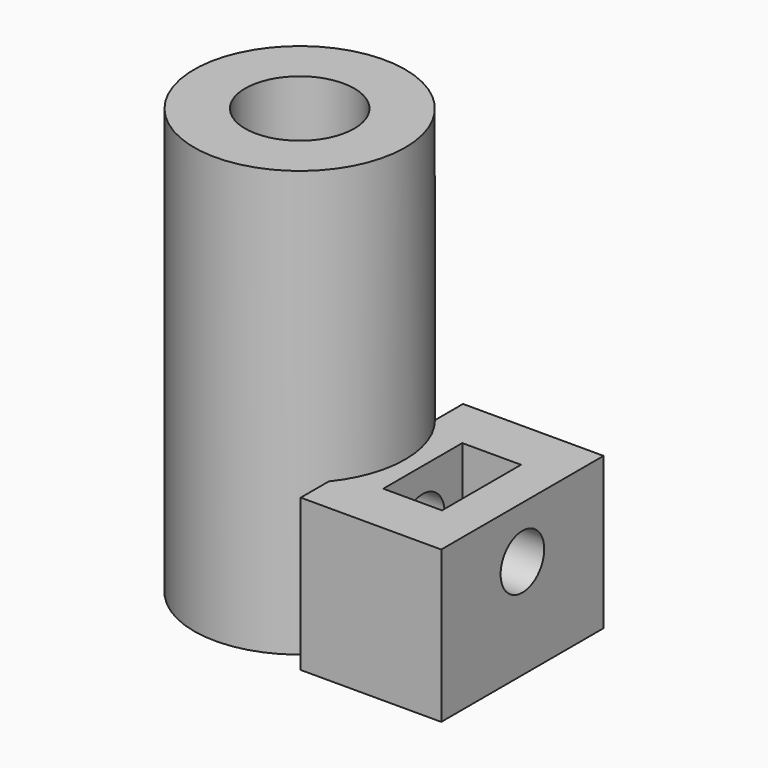
from build123d import *

# Parameters (mm, degrees)
CYLINDER005_R     = 1.6
CYLINDER005_DEPTH = 22.9
CYLINDER003_R     = 3.2
CYLINDER003_DEPTH = 50
CUBE003_W         = 3.45
CUBE003_H         = 5.8
CUBE003_DEPTH     = 11.11
CUBE002_W         = 8.25
CUBE002_H         = 11.91
CUBE002_DEPTH     = 8.91
CYLINDER004_R     = 6.2
CYLINDER004_DEPTH = 25


with BuildPart() as cylinder005:
    # cylinder005 → cylinder005 (new body)
    with BuildSketch(Plane(origin=(0, 0, 5.83), x_dir=(0, 0, -1), z_dir=(1, 0, 0))):
        Circle(CYLINDER005_R)
    extrude(amount=CYLINDER005_DEPTH)


with BuildPart() as union002:
    # cylinder003 → cylinder003 (new body)
    with BuildSketch(Plane.XY.offset(-1)):
        Circle(CYLINDER003_R)
    extrude(amount=CYLINDER003_DEPTH)

    # union002: union cylinder005
    add(cylinder005.part)


with BuildPart() as cube003:
    # cube003 → cube003 (new body)
    with BuildSketch(Plane(origin=(-1.725, -2.9, -3.6), x_dir=(1, 0, 0), z_dir=(0, 0, 1))):
        with Locations((1.725, 2.9)):
            Rectangle(CUBE003_W, CUBE003_H)
    extrude(amount=CUBE003_DEPTH)


with BuildPart() as difference002:
    # cube002 → cube002 (new body)
    with BuildSketch(Plane(origin=(-4.125, -5.955, -6.455), x_dir=(1, 0, 0), z_dir=(0, 0, 1))):
        with Locations((4.125, 5.955)):
            Rectangle(CUBE002_W, CUBE002_H)
    extrude(amount=CUBE002_DEPTH)

    # difference002: cut cube003
    add(cube003.part, mode=Mode.SUBTRACT)


with BuildPart() as difference002_1:
    # difference002 placement: moved
    add(difference002.part.moved(Location((8.95, 0, 6.425))))


with BuildPart() as wheel_fit_holder:
    # cylinder004 → cylinder004 (new body)
    with BuildSketch(Plane.XY):
        Circle(CYLINDER004_R)
    extrude(amount=CYLINDER004_DEPTH)

    # union003: union difference002
    add(difference002_1.part)

    # difference003: cut union002
    add(union002.part, mode=Mode.SUBTRACT)


solid = wheel_fit_holder.part
